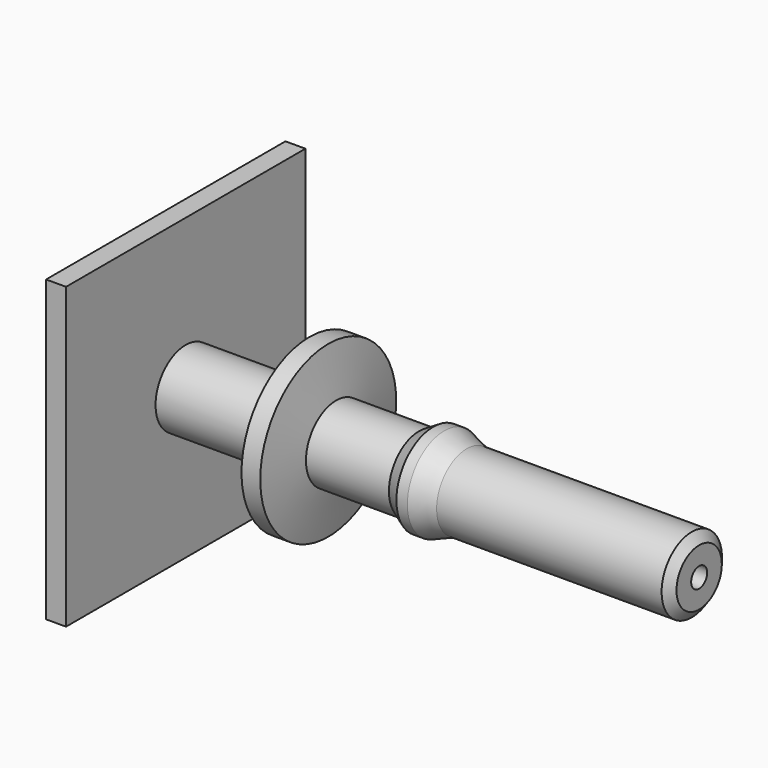
from build123d import *

# Parameters (mm, degrees)
F2_W     = 15
F2_H     = 15
F3_DEPTH = 1


with BuildPart() as f1:
    # F0 (on Front) → F1 (revolve)
    with BuildSketch(Plane.XZ):
        Polygon((-5.123077, 1.89), (-5.123077, 0.5), (20.616923, 0.5), (20.616923, 1.42), (20.246923, 1.89), (8.966923, 1.89), (7.836923, 2.31), (7.286923, 2.31), (6.576923, 1.89), (2.416923, 1.89), (2.021923, 4.26), (1.081923, 4.26), (0.686923, 1.89), (0, 1.89), align=None)
    revolve(axis=Axis((9.142162, 0, 0), (1, 0, 0)))

    # F2 (on face) → F3 (join)
    with BuildSketch(Plane(origin=(-5.123077, 0, 0), x_dir=(0, -1, 0), z_dir=(-1, 0, 0))):
        Rectangle(F2_W, F2_H)
    extrude(amount=F3_DEPTH)


solid = f1.part
